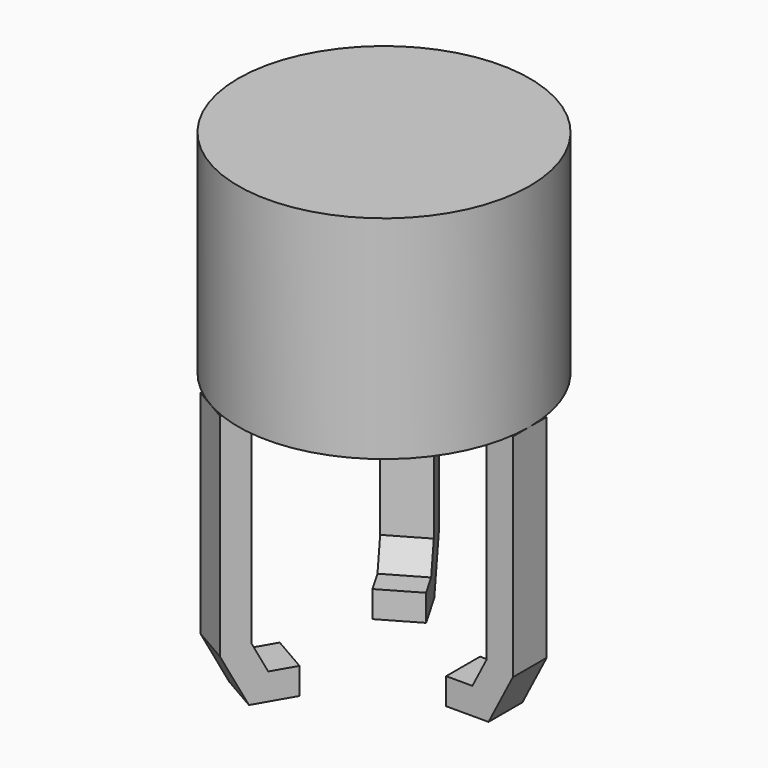
from build123d import *

# Parameters (mm, degrees)
F0_R     = 34.925
F1_DEPTH = 50.8
F3_DEPTH = 5.08
F4_ANGLE = 120
F5_ANGLE = 240


with BuildPart() as f1:
    # F0 (on Top) → F1 (new body)
    with BuildSketch(Plane.XY):
        Circle(F0_R)
    extrude(amount=F1_DEPTH)


with BuildPart() as f3:
    # F2 (on Front) → F3 (new body, symmetric)
    with BuildSketch(Plane.XZ):
        Polygon((34.925, -50.8), (34.925, 0), (28.575, 0), (28.575, -49.263884), (25.244027, -55.745778), (18.960227, -55.745778), (18.960227, -62.095778), (29.120227, -62.095778), align=None)
    extrude(amount=F3_DEPTH, both=True)


with BuildPart() as f4_1:
    # F4: copy of F3
    add(f3.part.rotate(Axis((0, 0, 50.8), (0, 0, 1)), F4_ANGLE))


with BuildPart() as f5_1:
    # F5: copy of F3
    add(f3.part.rotate(Axis((0, 0, 50.8), (0, 0, 1)), F5_ANGLE))


solid = Compound([f1.part, f3.part, f4_1.part, f5_1.part])
